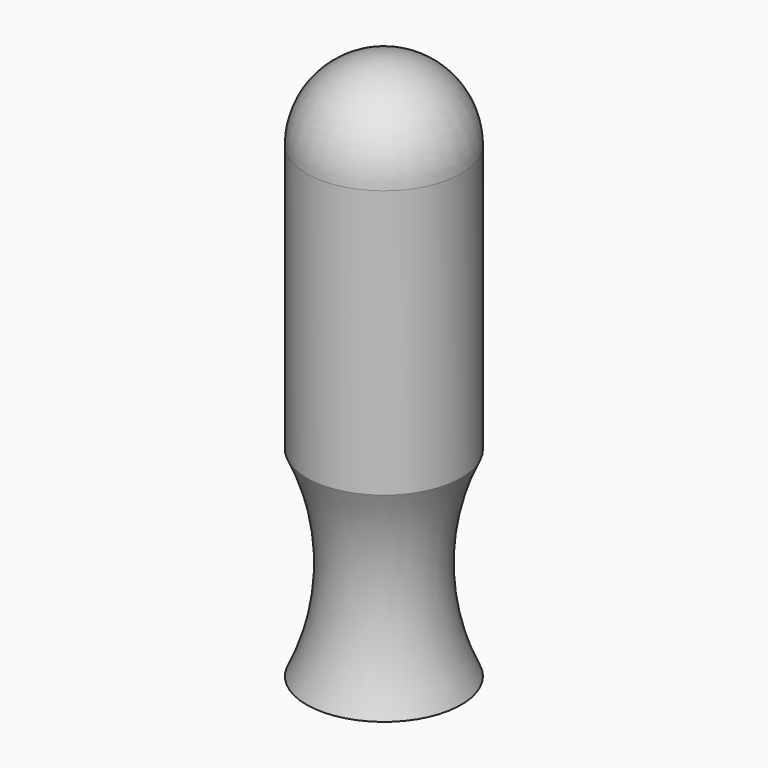
from build123d import *


with BuildPart() as f1:
    # F0 (on Front) → F1 (revolve)
    with BuildSketch(Plane.XZ):
        with BuildLine():
            ThreePointArc((0, 59.095535), (-11.521479, 54.323183), (-16.293831, 42.801704))
            Line((-16.293831, 42.801704), (-16.293831, 0))
            Line((-16.293831, 0), (-16.293831, -13.618723))
            ThreePointArc((-16.293831, -13.618723), (-11.493055, -34.654787), (-16.293831, -55.690851))
            Line((-16.293831, -55.690851), (0, -55.690851))
            Line((0, -55.690851), (0, 59.095535))
        make_face()
    revolve(axis=Axis((0, 0, 3.404679), (0, 0, 1)))


solid = f1.part
